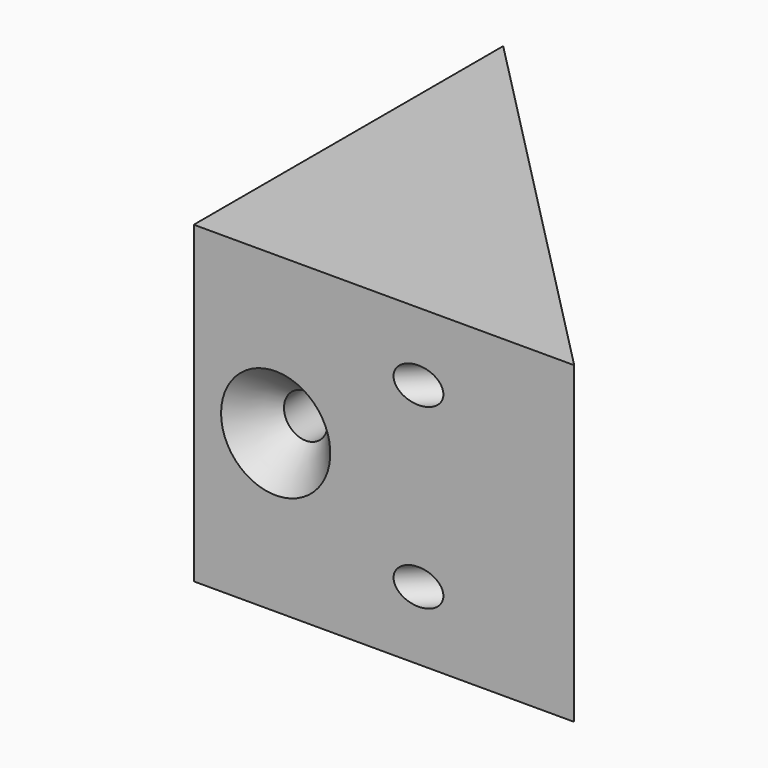
from build123d import *

# Parameters (mm, degrees)
F1_DEPTH       = 9.128125
F3_D           = 2.032
F3_CSINK_D     = 3.175
F3_CSINK_ANGLE = 82
F5_D           = 2.54
F5_CSINK_D     = 6.35
F5_CSINK_ANGLE = 82


with BuildPart() as f1:
    # F0 (on Top) → F1 (new body, symmetric)
    with BuildSketch(Plane.XY):
        Polygon((-16.14385, 0), (-38.262192, 22.486981), (-38.262192, 0), align=None)
    extrude(amount=F1_DEPTH, both=True)

    # F3 (through all)
    with Locations(Plane(origin=(-8.205336, -8.070822, 0), x_dir=(-0.701239, 0.712926, 0), z_dir=(0.712926, 0.701239, 0))):
        with Locations((17.670697, -5.159375), (17.670697, 5.159375)):
            CounterSinkHole(F3_D / 2, F3_CSINK_D / 2, counter_sink_angle=F3_CSINK_ANGLE)

    # F5 (through all)
    with Locations(Plane.XZ):
        with Locations((-33.499692, 0)):
            CounterSinkHole(F5_D / 2, F5_CSINK_D / 2, counter_sink_angle=F5_CSINK_ANGLE)


solid = f1.part
